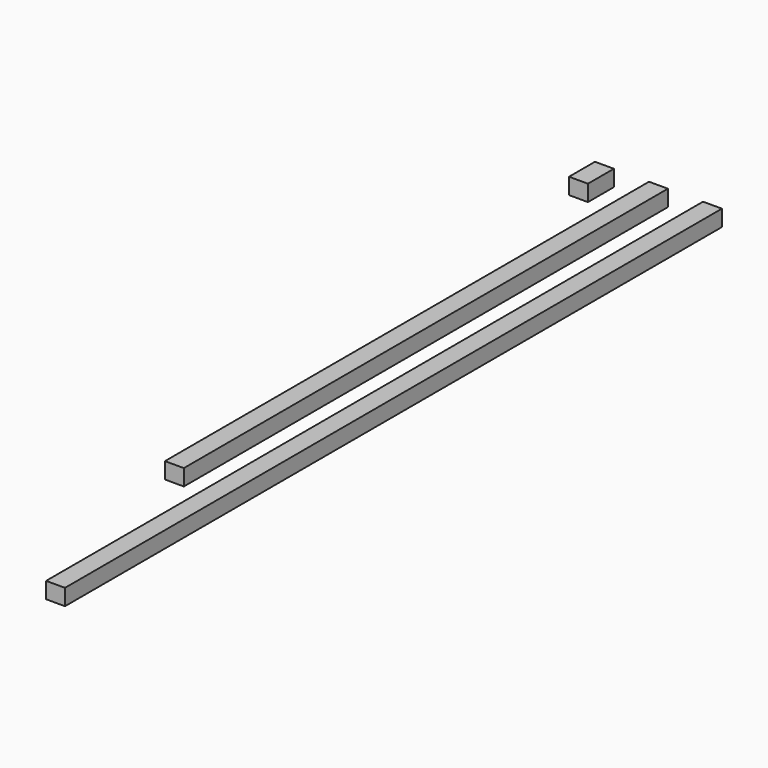
from build123d import *

# Parameters (mm, degrees)
F0_W     = 44.45
F0_H     = 38.1
F1_DEPTH = 76.2
F3_DEPTH = 1346.2
F5_DEPTH = 1854.2


with BuildPart() as f1:
    # F0 (on Front) → F1 (new body)
    with BuildSketch(Plane.XZ):
        Rectangle(F0_W, F0_H)
    extrude(amount=F1_DEPTH)


with BuildPart() as f2_1:
    # F2: copy of F1
    add(f1.part.moved(Location((127, 0, 0))))

    # F3 (add): a face of the model
    f3_faces = [f2_1.faces().sort_by_distance(p)[0] for p in [
        (127, -76.2, 0),
    ]]
    extrude(f3_faces, amount=F3_DEPTH)


with BuildPart() as f4_1:
    # F4: copy of F1
    add(f1.part.moved(Location((254, 0, 0))))

    # F5 (add): a face of the model
    f5_faces = [f4_1.faces().sort_by_distance(p)[0] for p in [
        (254, -76.2, 0),
    ]]
    extrude(f5_faces, amount=F5_DEPTH)


solid = Compound([f1.part, f2_1.part, f4_1.part])
